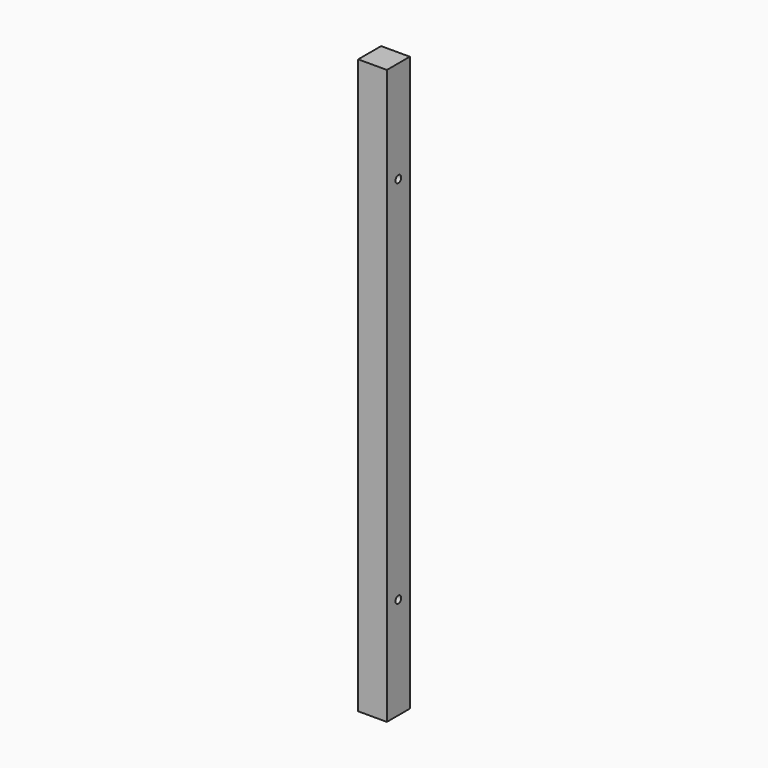
from build123d import *

# Parameters (mm, degrees)
F0_W     = 20
F0_H     = 400
F1_DEPTH = 20
F2_R     = 2.5
F3_DEPTH = 25


with BuildPart() as f1:
    # F0 (on Front) → F1 (new body)
    with BuildSketch(Plane.XZ):
        with Locations((0, 200)):
            Rectangle(F0_W, F0_H)
    extrude(amount=F1_DEPTH)

    # F2 (on face) → F3 (cut)
    with BuildSketch(Plane.YZ.offset(10)):
        with Locations((-10, 71)):
            Circle(F2_R)
        with Locations((-10, 329)):
            Circle(F2_R)
    extrude(amount=-F3_DEPTH, mode=Mode.SUBTRACT)


solid = f1.part
